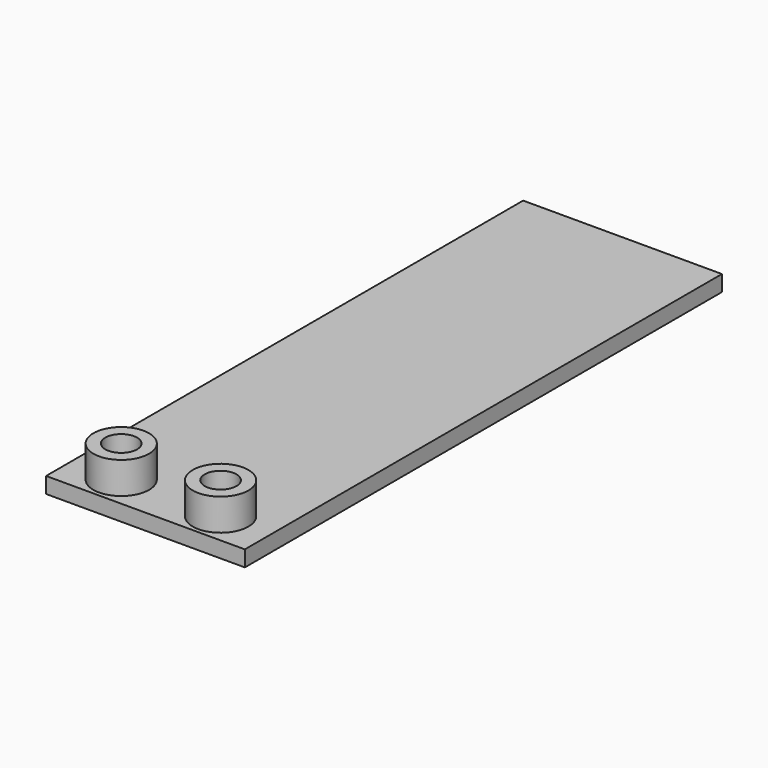
from build123d import *

# Parameters (mm, degrees)
F0_W      = 25
F0_H      = 75
F3_DEPTH  = 2
F4_DEPTH  = 0.5
F6_R      = 3.5
F6_R_2    = 2
F7_DEPTH  = 4
F8_DEPTH  = 1
F9_W      = 4.5
F9_H      = 15
F10_DEPTH = 1
F11_DEPTH = 2


with BuildPart() as f3:
    # F0 (on Top) → F3 (new body)
    with BuildSketch(Plane.XY):
        with Locations((-31.788486, -12.391831)):
            Rectangle(F0_W, F0_H)
    extrude(amount=F3_DEPTH)

    # F1 (on face) → F4 (cut)
    with BuildSketch(Plane.XY):
        with BuildLine():
            ThreePointArc((-27.538486, -45.891831), (-25.538486, -47.891831), (-23.538486, -45.891831))
            ThreePointArc((-23.538486, -45.891831), (-25.538486, -43.891831), (-27.538486, -45.891831))
        make_face()
        with BuildLine():
            ThreePointArc((-27.538486, -45.891831), (-25.538486, -43.891831), (-23.538486, -45.891831))
            Line((-23.538486, -45.891831), (-23.288486, -43.891831))
            Line((-23.288486, -43.891831), (-23.288486, 15.108169))
            ThreePointArc((-23.288486, 15.108169), (-31.788486, 23.608169), (-40.288486, 15.108169))
            Line((-40.288486, 15.108169), (-40.288486, -43.891831))
            Line((-40.288486, -43.891831), (-40.038486, -45.891831))
            ThreePointArc((-40.038486, -45.891831), (-38.038486, -43.891831), (-36.038486, -45.891831))
            Line((-36.038486, -45.891831), (-35.788486, -43.891831))
            Line((-35.788486, -43.891831), (-35.788486, 15.108169))
            ThreePointArc((-35.788486, 15.108169), (-31.788486, 19.108169), (-27.788486, 15.108169))
            Line((-27.788486, 15.108169), (-27.788486, -43.891831))
            Line((-27.788486, -43.891831), (-27.538486, -45.891831))
        make_face()
        with BuildLine():
            ThreePointArc((-36.038486, -45.891831), (-38.038486, -43.891831), (-40.038486, -45.891831))
            ThreePointArc((-40.038486, -45.891831), (-38.038486, -47.891831), (-36.038486, -45.891831))
        make_face()
    extrude(amount=F4_DEPTH, mode=Mode.SUBTRACT)

    # F6 (on face) → F7 (join)
    with BuildSketch(Plane.XY.offset(2)):
        with Locations((-38.038486, -45.891831)):
            Circle(F6_R)
        with Locations((-38.038486, -45.891831)):
            Circle(F6_R_2, mode=Mode.SUBTRACT)
        with Locations((-25.538486, -45.891831)):
            Circle(F6_R)
        with Locations((-25.538486, -45.891831)):
            Circle(F6_R_2, mode=Mode.SUBTRACT)
    extrude(amount=F7_DEPTH)

    # F6 (on face) → F8 (cut)
    with BuildSketch(Plane.XY.offset(2)):
        with Locations((-25.538486, -45.891831)):
            Circle(F6_R_2)
        with Locations((-38.038486, -45.891831)):
            Circle(F6_R_2)
    extrude(amount=-F8_DEPTH, mode=Mode.SUBTRACT)

    # F9 (on face) → F10 (cut)
    with BuildSketch(Plane.XY):
        with BuildLine():
            Line((-40.288486, -43.891831), (-40.038486, -45.891831))
            ThreePointArc((-40.038486, -45.891831), (-38.038486, -47.891831), (-36.038486, -45.891831))
            Line((-36.038486, -45.891831), (-35.788486, -43.891831))
            Line((-35.788486, -43.891831), (-35.788486, -23.891831))
            Line((-35.788486, -23.891831), (-40.288486, -23.891831))
            Line((-40.288486, -23.891831), (-40.288486, -43.891831))
        make_face()
        with Locations((-38.038486, -1.391831)):
            Rectangle(F9_W, F9_H)
    extrude(amount=F10_DEPTH, mode=Mode.SUBTRACT)

    # F6 (on face) → F11 (cut)
    with BuildSketch(Plane.XY.offset(2)):
        with Locations((-25.538486, -45.891831)):
            Circle(F6_R_2)
        with Locations((-38.038486, -45.891831)):
            Circle(F6_R_2)
    extrude(amount=-F11_DEPTH, mode=Mode.SUBTRACT)


solid = f3.part
